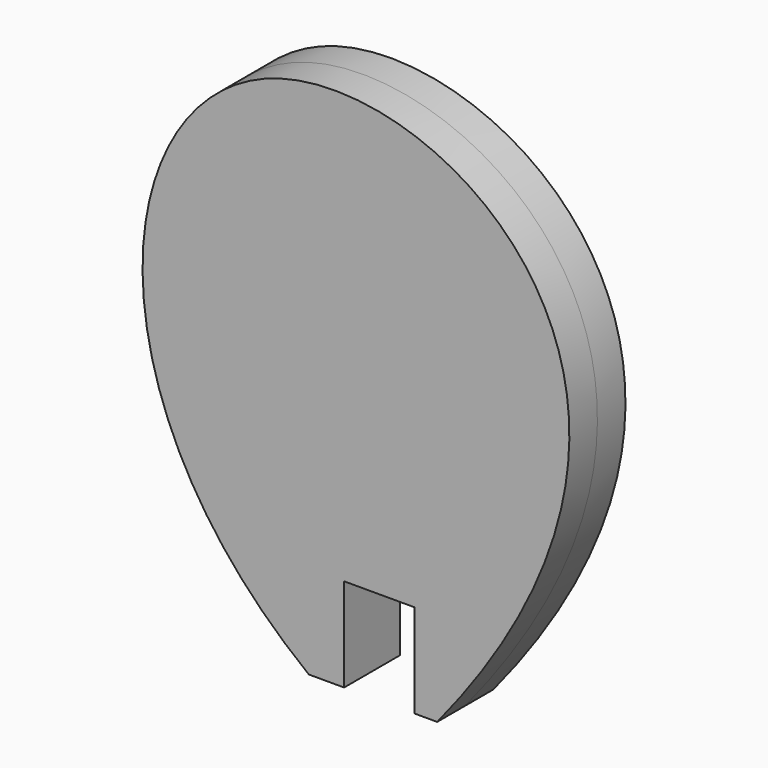
from build123d import *

# Parameters (mm, degrees)
F2_DEPTH = 1.5
F3_W     = 3
F3_H     = 8
F4_DEPTH = 25


with BuildPart() as f2:
    # F1 (on Front) → F2 (new body, symmetric)
    with BuildSketch(Plane.XZ):
        with BuildLine():
            add(Edge.make_bspline(
                [(-3.007538151, 0), (-13.15377192, 7.8461202034), (-9.5639763449, 32.1916673394), (15.5377603027, 15.9830170893), (2.4807401933, 0)],
                knots=[0, 0, 0, 0, 0.4944920993, 1, 1, 1, 1], degree=3))
            Line((-3.007538151, 0), (2.4807401933, 0))
        make_face()
    extrude(amount=F2_DEPTH, both=True)

    # F3 (on face) → F4 (cut)
    with BuildSketch(Plane.XZ.offset(1.5)):
        Rectangle(F3_W, F3_H)
    extrude(amount=-F4_DEPTH, mode=Mode.SUBTRACT)


solid = f2.part
